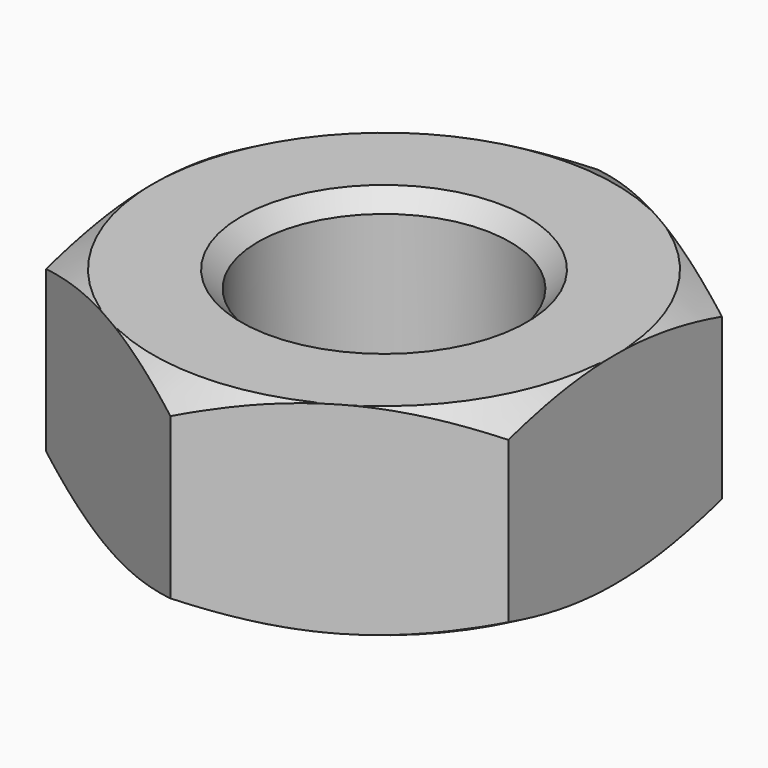
from build123d import *

# Parameters (mm, degrees)
SKETCH005_R     = 4.175426
POCKET001_DEPTH = 2.401
SKETCH006_R     = 1.5
POCKET002_DEPTH = 2.401
CHAMFER002_SIZE = 0.2


with BuildPart() as part:
    # Sketch004 → Revolution002 (revolve)
    with BuildSketch(Plane.XZ):
        Polygon((0, 2.4), (2.75, 2.4), (3.175, 2.154626), (3.175, 0.245374), (2.75, 0), (0, 0), align=None)
    revolve(axis=Axis((0, 0, 0), (0, 0, 1)))

    # Sketch005 (on Face3 of Revolution002) → Pocket001 (cut, through all)
    with BuildSketch(Plane(origin=(0, 0, 2.4), x_dir=(-1, 0, 0), z_dir=(0, 0, 1))):
        Circle(SKETCH005_R)
        Polygon((-2.75, 1.587713), (0, 3.175426), (2.75, 1.587713), (2.75, -1.587713), (0, -3.175426), (-2.75, -1.587713), align=None, mode=Mode.SUBTRACT)
    extrude(amount=-POCKET001_DEPTH, mode=Mode.SUBTRACT)

    # Sketch006 (on Face16 of Pocket001) → Pocket002 (cut, through all)
    with BuildSketch(Plane(origin=(0, 0, 2.4), x_dir=(-1, 0, 0), z_dir=(0, 0, 1))):
        Circle(SKETCH006_R)
    extrude(amount=-POCKET002_DEPTH, mode=Mode.SUBTRACT)

    # Chamfer002
    chamfer002_edges = [part.edges().sort_by_distance(p)[0] for p in [
        (1.5, 0, 2.4),
        (1.5, 0, 0),
    ]]
    chamfer(chamfer002_edges, length=CHAMFER002_SIZE)


solid = part.part
